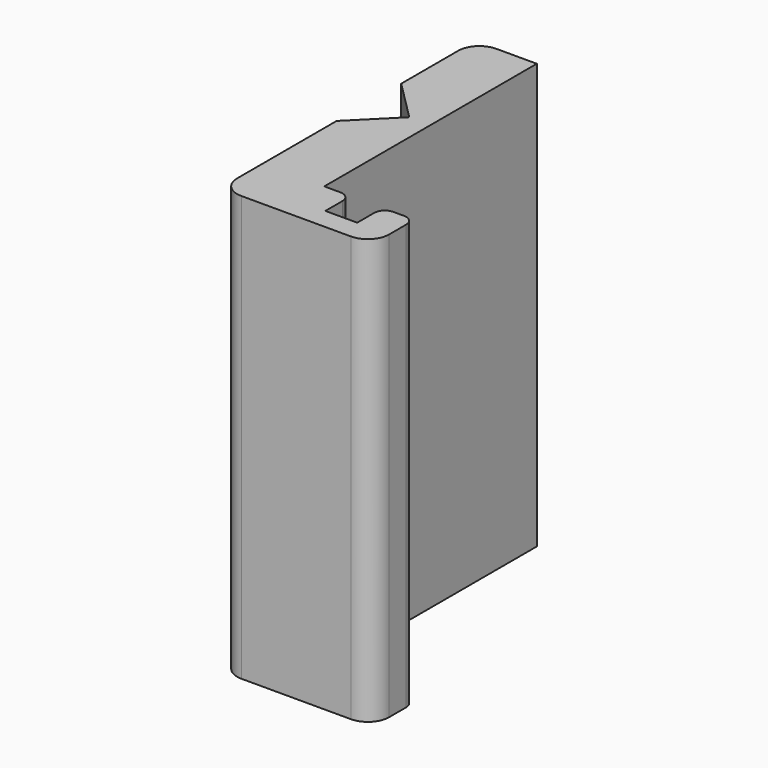
from build123d import *

# Parameters (mm, degrees)
F1_DEPTH = 40


with BuildPart() as f1:
    # F0 (on Top) → F1 (new body)
    with BuildSketch(Plane.XY):
        with BuildLine():
            Line((0, -25), (0, 0))
            Line((0, 0), (-3.8, 0))
            ThreePointArc((-3.8, 0), (-5.214214, -0.585786), (-5.8, -2))
            Line((-5.8, -2), (-5.8, -8.7))
            Line((-5.8, -8.7), (-2, -12.5))
            Line((-2, -12.5), (-5.8, -16.3))
            Line((-5.8, -16.3), (-5.8, -25))
            Line((-5.8, -25), (-5.8, -28))
            ThreePointArc((-5.8, -28), (-5.214214, -29.414214), (-3.8, -30))
            Line((-3.8, -30), (0, -30))
            Line((0, -30), (6.5, -30))
            ThreePointArc((6.5, -30), (7.914214, -29.414214), (8.5, -28))
            Line((8.5, -28), (8.5, -26))
            ThreePointArc((8.5, -26), (8.207107, -25.292893), (7.5, -25))
            Line((7.5, -25), (6.5, -25))
            ThreePointArc((6.5, -25), (5.792893, -25.292893), (5.5, -26))
            Line((5.5, -26), (5.5, -28))
            Line((5.5, -28), (2.5, -28))
            Line((2.5, -28), (2.5, -26))
            ThreePointArc((2.5, -26), (2.207107, -25.292893), (1.5, -25))
            Line((1.5, -25), (0, -25))
        make_face()
    extrude(amount=F1_DEPTH)


solid = f1.part
